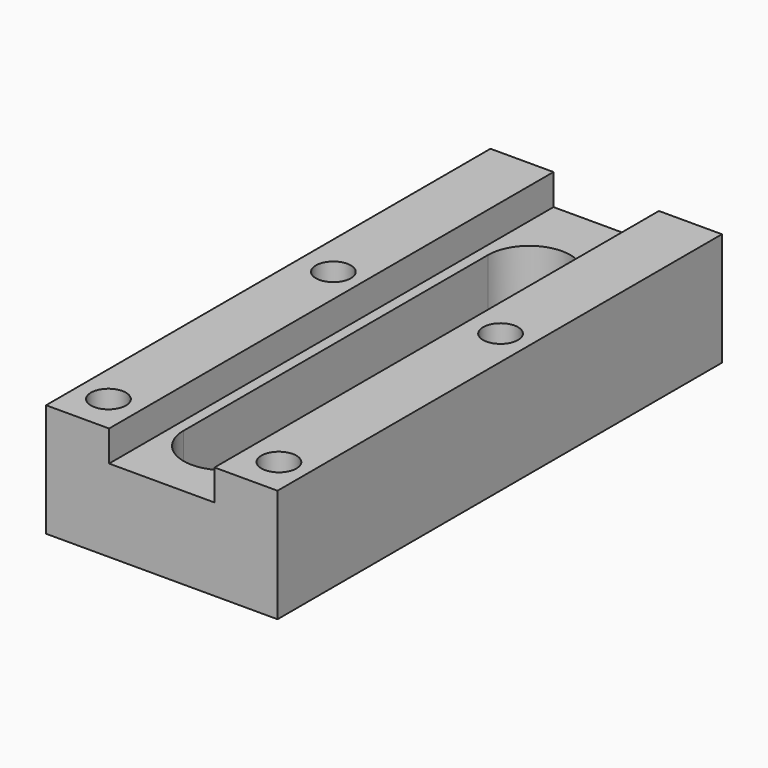
from build123d import *

# Parameters (mm, degrees)
F1_DEPTH = 2743.2
F3_DEPTH = 406.4
F4_R     = 86.36
F5_DEPTH = 558.8


with BuildPart() as f1:
    # F0 (on Front) → F1 (new body)
    with BuildSketch(Plane.XZ):
        Polygon((571.5, -279.4), (571.5, 279.4), (260.35, 279.4), (260.35, 127), (-260.35, 127), (-260.35, 279.4), (-571.5, 279.4), (-571.5, -279.4), align=None)
    extrude(amount=F1_DEPTH)

    # F2 (on face) → F3 (cut)
    with BuildSketch(Plane.XY.offset(127)):
        with BuildLine():
            ThreePointArc((198.931698, -469.923138), (-4.268302, -266.723138), (-207.468302, -469.923138))
            Line((-207.468302, -469.923138), (-207.468302, -2349.523138))
            ThreePointArc((-207.468302, -2349.523138), (-4.268302, -2552.723138), (198.931698, -2349.523138))
            Line((198.931698, -2349.523138), (198.931698, -469.923138))
        make_face()
    extrude(amount=-F3_DEPTH, mode=Mode.SUBTRACT)

    # F4 (on face) → F5 (cut)
    with BuildSketch(Plane.XY.offset(279.4)):
        with Locations((-402.445167, -1181.1)):
            Circle(F4_R)
        with Locations((-415.925, -2552.7)):
            Circle(F4_R)
        with Locations((425.997525, -2552.7)):
            Circle(F4_R)
        with Locations((423.177719, -1181.1)):
            Circle(F4_R)
    extrude(amount=-F5_DEPTH, mode=Mode.SUBTRACT)


solid = f1.part
